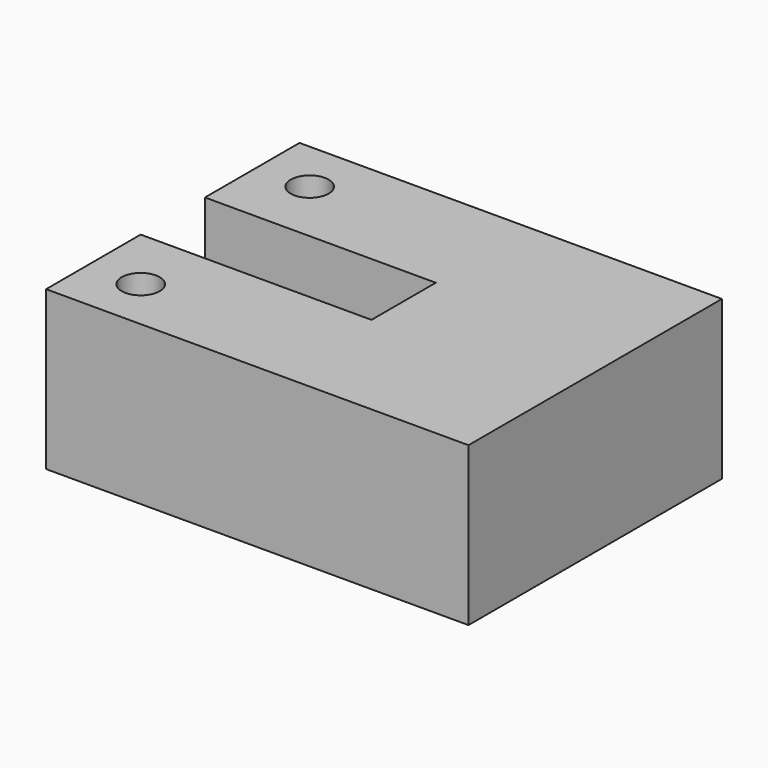
from build123d import *

# Parameters (mm, degrees)
F0_W     = 40
F0_H     = 30
F1_DEPTH = 7.5
F2_W     = 21.86022
F2_H     = 7.61192
F3_DEPTH = 25
F4_R     = 1.8
F5_DEPTH = 20


with BuildPart() as f1:
    # F0 (on Top) → F1 (new body, symmetric)
    with BuildSketch(Plane.XY):
        Rectangle(F0_W, F0_H)
    extrude(amount=F1_DEPTH, both=True)

    # F2 (on face) → F3 (cut)
    with BuildSketch(Plane.XY.offset(7.5)):
        with Locations((-9.06989, 0)):
            Rectangle(F2_W, F2_H)
    extrude(amount=-F3_DEPTH, mode=Mode.SUBTRACT)

    # F4 (on face) → F5 (cut)
    with BuildSketch(Plane.XY.offset(7.5)):
        with Locations((-15.035771, -10)):
            Circle(F4_R)
        with Locations((-15.035771, 10)):
            Circle(F4_R)
    extrude(amount=-F5_DEPTH, mode=Mode.SUBTRACT)


solid = f1.part
